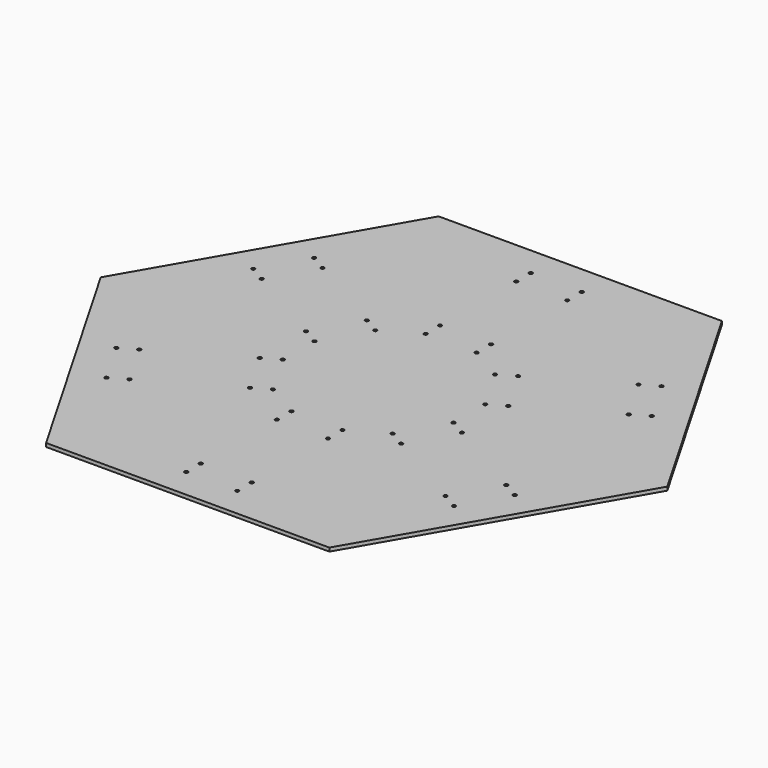
from build123d import *

# Parameters (mm, degrees)
F0_R     = 1.5
F1_DEPTH = 3.175


with BuildPart() as f1:
    # F0 (on Top) → F1 (new body)
    with BuildSketch(Plane.XY):
        Polygon((125, -216.506351), (250, 0), (125, 216.506351), (-125, 216.506351), (-250, 0), (-125, -216.506351), align=None)
        with Locations((-153.300327, -114.488747)):
            Circle(F0_R, mode=Mode.SUBTRACT)
        with Locations((-22.5, -190.006351)):
            Circle(F0_R, mode=Mode.SUBTRACT)
        with Locations((-22.5, -174.006351)):
            Circle(F0_R, mode=Mode.SUBTRACT)
        with Locations((-139.44392, -106.488747)):
            Circle(F0_R, mode=Mode.SUBTRACT)
        with Locations((-175.800327, -75.517604)):
            Circle(F0_R, mode=Mode.SUBTRACT)
        with Locations((-161.94392, -67.517604)):
            Circle(F0_R, mode=Mode.SUBTRACT)
        with Locations((-66.697786, -64.488747)):
            Circle(F0_R, mode=Mode.SUBTRACT)
        with Locations((-22.5, -90.006351)):
            Circle(F0_R, mode=Mode.SUBTRACT)
        with Locations((-52.84138, -56.488747)):
            Circle(F0_R, mode=Mode.SUBTRACT)
        with Locations((-22.5, -74.006351)):
            Circle(F0_R, mode=Mode.SUBTRACT)
        with Locations((-89.197786, -25.517604)):
            Circle(F0_R, mode=Mode.SUBTRACT)
        with Locations((-75.34138, -17.517604)):
            Circle(F0_R, mode=Mode.SUBTRACT)
        with Locations((22.5, -190.006351)):
            Circle(F0_R, mode=Mode.SUBTRACT)
        with Locations((22.5, -174.006351)):
            Circle(F0_R, mode=Mode.SUBTRACT)
        with Locations((153.300327, -114.488747)):
            Circle(F0_R, mode=Mode.SUBTRACT)
        with Locations((22.5, -90.006351)):
            Circle(F0_R, mode=Mode.SUBTRACT)
        with Locations((22.5, -74.006351)):
            Circle(F0_R, mode=Mode.SUBTRACT)
        with Locations((52.84138, -56.488747)):
            Circle(F0_R, mode=Mode.SUBTRACT)
        with Locations((66.697786, -64.488747)):
            Circle(F0_R, mode=Mode.SUBTRACT)
        with Locations((75.34138, -17.517604)):
            Circle(F0_R, mode=Mode.SUBTRACT)
        with Locations((89.197786, -25.517604)):
            Circle(F0_R, mode=Mode.SUBTRACT)
        with Locations((139.44392, -106.488747)):
            Circle(F0_R, mode=Mode.SUBTRACT)
        with Locations((175.800327, -75.517604)):
            Circle(F0_R, mode=Mode.SUBTRACT)
        with Locations((161.94392, -67.517604)):
            Circle(F0_R, mode=Mode.SUBTRACT)
        with Locations((-161.94392, 67.517604)):
            Circle(F0_R, mode=Mode.SUBTRACT)
        with Locations((-175.800327, 75.517604)):
            Circle(F0_R, mode=Mode.SUBTRACT)
        with Locations((-139.44392, 106.488747)):
            Circle(F0_R, mode=Mode.SUBTRACT)
        with Locations((-89.197786, 25.517604)):
            Circle(F0_R, mode=Mode.SUBTRACT)
        with Locations((-75.34138, 17.517604)):
            Circle(F0_R, mode=Mode.SUBTRACT)
        with Locations((-66.697786, 64.488747)):
            Circle(F0_R, mode=Mode.SUBTRACT)
        with Locations((-52.84138, 56.488747)):
            Circle(F0_R, mode=Mode.SUBTRACT)
        with Locations((-22.5, 74.006351)):
            Circle(F0_R, mode=Mode.SUBTRACT)
        with Locations((-22.5, 90.006351)):
            Circle(F0_R, mode=Mode.SUBTRACT)
        with Locations((-153.300327, 114.488747)):
            Circle(F0_R, mode=Mode.SUBTRACT)
        with Locations((-22.5, 174.006351)):
            Circle(F0_R, mode=Mode.SUBTRACT)
        with Locations((-22.5, 190.006351)):
            Circle(F0_R, mode=Mode.SUBTRACT)
        with Locations((75.34138, 17.517604)):
            Circle(F0_R, mode=Mode.SUBTRACT)
        with Locations((89.197786, 25.517604)):
            Circle(F0_R, mode=Mode.SUBTRACT)
        with Locations((22.5, 74.006351)):
            Circle(F0_R, mode=Mode.SUBTRACT)
        with Locations((52.84138, 56.488747)):
            Circle(F0_R, mode=Mode.SUBTRACT)
        with Locations((22.5, 90.006351)):
            Circle(F0_R, mode=Mode.SUBTRACT)
        with Locations((66.697786, 64.488747)):
            Circle(F0_R, mode=Mode.SUBTRACT)
        with Locations((161.94392, 67.517604)):
            Circle(F0_R, mode=Mode.SUBTRACT)
        with Locations((175.800327, 75.517604)):
            Circle(F0_R, mode=Mode.SUBTRACT)
        with Locations((139.44392, 106.488747)):
            Circle(F0_R, mode=Mode.SUBTRACT)
        with Locations((22.5, 174.006351)):
            Circle(F0_R, mode=Mode.SUBTRACT)
        with Locations((22.5, 190.006351)):
            Circle(F0_R, mode=Mode.SUBTRACT)
        with Locations((153.300327, 114.488747)):
            Circle(F0_R, mode=Mode.SUBTRACT)
    extrude(amount=F1_DEPTH)


solid = f1.part
